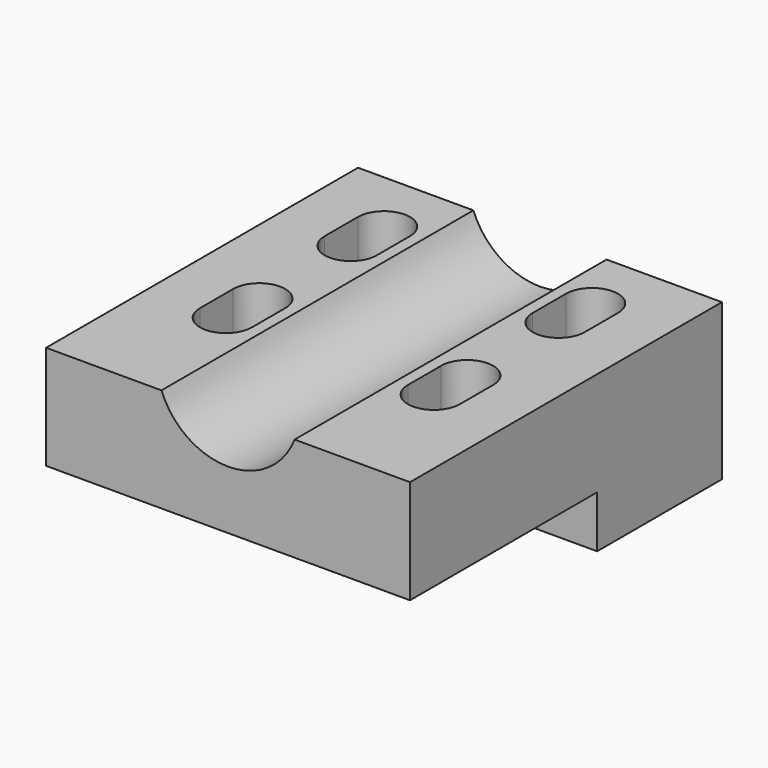
from build123d import *

# Parameters (mm, degrees)
F0_W     = 14
F0_H     = 15
F1_DEPTH = 4
F3_DEPTH = 15.001
F4_W     = 14
F4_H     = 6
F5_DEPTH = 2


with BuildPart() as f1:
    # F0 (on Top) → F1 (new body)
    with BuildSketch(Plane.XY):
        with Locations((0, 7.5)):
            Rectangle(F0_W, F0_H)
        with BuildLine():
            Line((-5, 4.9), (-5, 6.5))
            ThreePointArc((-5, 6.5), (-4, 7.5), (-3, 6.5))
            Line((-3, 6.5), (-3, 4.9))
            ThreePointArc((-3, 4.9), (-4, 3.9), (-5, 4.9))
        make_face(mode=Mode.SUBTRACT)
        with BuildLine():
            Line((5, 6.5), (5, 4.9))
            ThreePointArc((5, 4.9), (4, 3.9), (3, 4.9))
            Line((3, 4.9), (3, 6.5))
            ThreePointArc((3, 6.5), (4, 7.5), (5, 6.5))
        make_face(mode=Mode.SUBTRACT)
        with BuildLine():
            Line((-5, 10.9), (-5, 12.5))
            ThreePointArc((-5, 12.5), (-4, 13.5), (-3, 12.5))
            Line((-3, 12.5), (-3, 10.9))
            ThreePointArc((-3, 10.9), (-4, 9.9), (-5, 10.9))
        make_face(mode=Mode.SUBTRACT)
        with BuildLine():
            Line((3, 10.9), (3, 12.5))
            ThreePointArc((3, 12.5), (4, 13.5), (5, 12.5))
            Line((5, 12.5), (5, 10.9))
            ThreePointArc((5, 10.9), (4, 9.9), (3, 10.9))
        make_face(mode=Mode.SUBTRACT)
    extrude(amount=F1_DEPTH)

    # F2 (on face) → F3 (cut, through all)
    with BuildSketch(Plane.XZ):
        with BuildLine():
            ThreePointArc((2.75, 5), (2.702525, 4.491216), (2.561738, 4))
            Line((2.561738, 4), (2.75, 4))
            Line((2.75, 4), (2.75, 5))
        make_face()
        with BuildLine():
            Line((2.561738, 4), (-2.561738, 4))
            ThreePointArc((-2.561738, 4), (0, 2.25), (2.561738, 4))
        make_face()
        with BuildLine():
            ThreePointArc((-2.561738, 4), (-2.702525, 4.491216), (-2.75, 5))
            Line((-2.75, 5), (-2.75, 4))
            Line((-2.75, 4), (-2.561738, 4))
        make_face()
    extrude(amount=-F3_DEPTH, mode=Mode.SUBTRACT)

    # F4 (on face) → F5 (join)
    with BuildSketch(Plane(origin=(0, 0, 0), x_dir=(1, 0, 0), z_dir=(0, 0, -1))):
        with Locations((0, -12)):
            Rectangle(F4_W, F4_H)
        with BuildLine():
            ThreePointArc((-3, -12.5), (-4, -13.5), (-5, -12.5))
            Line((-5, -12.5), (-5, -10.9))
            ThreePointArc((-5, -10.9), (-4, -9.9), (-3, -10.9))
            Line((-3, -10.9), (-3, -12.5))
        make_face(mode=Mode.SUBTRACT)
        with BuildLine():
            ThreePointArc((5, -12.5), (4, -13.5), (3, -12.5))
            Line((3, -12.5), (3, -10.9))
            ThreePointArc((3, -10.9), (4, -9.9), (5, -10.9))
            Line((5, -10.9), (5, -12.5))
        make_face(mode=Mode.SUBTRACT)
    extrude(amount=F5_DEPTH)


solid = f1.part
